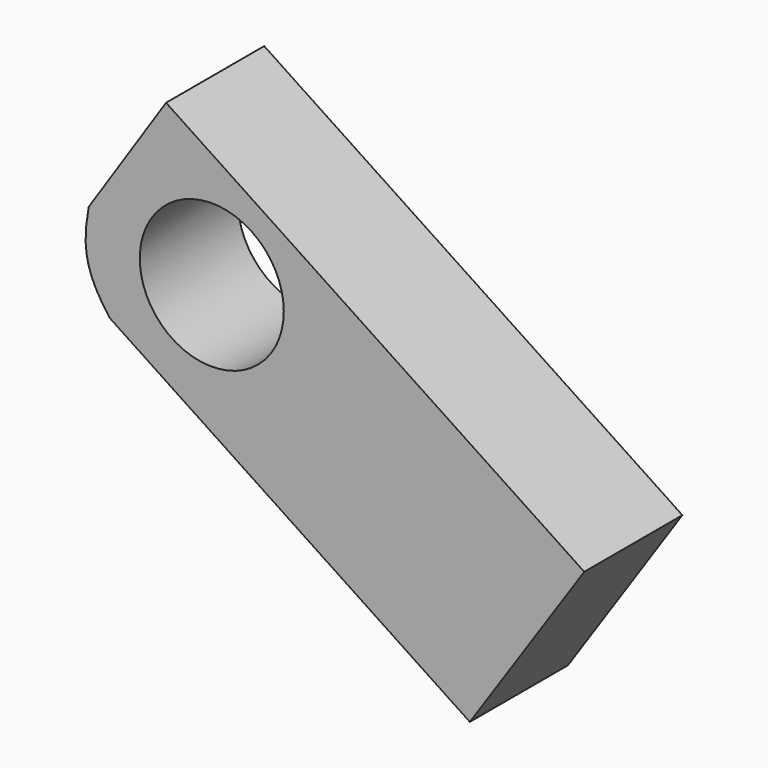
from build123d import *

# Parameters (mm, degrees)
F0_R     = 2.683724
F1_DEPTH = 4.572


with BuildPart() as f1:
    # F0 (on Front) → F1 (new body)
    with BuildSketch(Plane.XZ):
        with BuildLine():
            Line((19.880325, -16.873932), (24.146159, -10.559505))
            Line((24.146159, -10.559505), (8.557661, -0.236129))
            Line((8.557661, -0.236129), (5.673256, -4.591637))
            add(Edge.make_bspline(
                [(5.673256, -4.591637), (5.427165, -5.934836), (5.521153, -6.734579), (6.453991, -7.982434)],
                knots=[0, 0, 0, 0, 3.479519, 3.479519, 3.479519, 3.479519], degree=3))
            Line((6.453991, -7.982434), (19.880325, -16.873932))
        make_face()
        with Locations((10.26101, -5.660994)):
            Circle(F0_R, mode=Mode.SUBTRACT)
    extrude(amount=F1_DEPTH)


solid = f1.part
